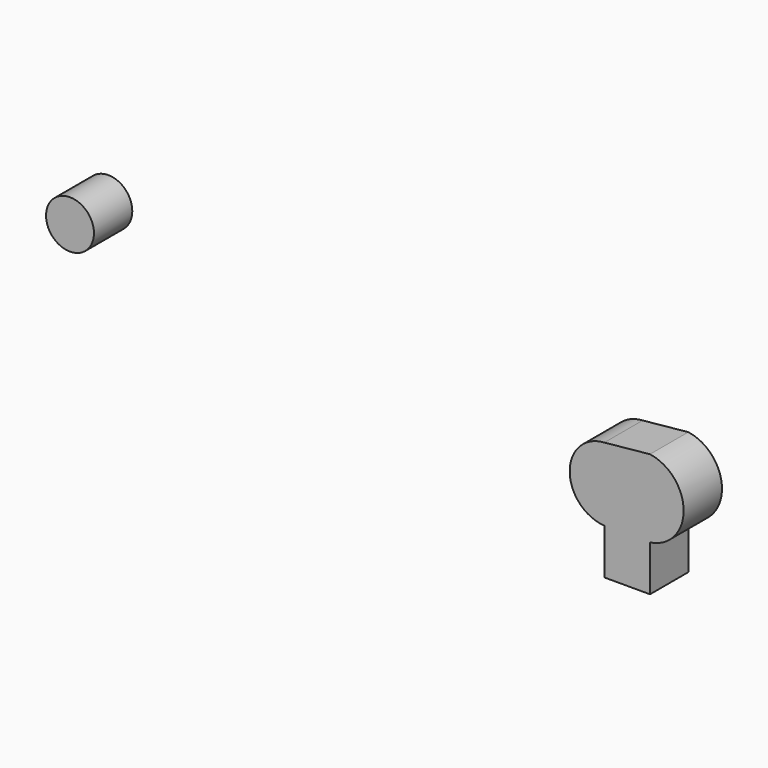
from build123d import *

# Parameters (mm, degrees)
F0_R     = 2.54
F1_DEPTH = 5.08
F3_DEPTH = 5.08


with BuildPart() as f1:
    # F0 (on Front) → F1 (new body)
    with BuildSketch(Plane.XZ):
        with Locations((-24.448814, 22.996413)):
            Circle(F0_R)
    extrude(amount=F1_DEPTH)


with BuildPart() as f3:
    # F2 (on Front) → F3 (new body)
    with BuildSketch(Plane.XZ):
        with BuildLine():
            Line((37.036318, 8.472365), (37.036318, 13.313714))
            ThreePointArc((37.036318, 13.313714), (40.60537, 17.428861), (37.036318, 21.544008))
            Line((37.036318, 21.544008), (32.194976, 21.059873))
            ThreePointArc((32.194976, 21.059873), (28.523823, 17.186793), (32.194976, 13.313714))
            Line((32.194976, 13.313714), (32.194976, 8.472365))
            Line((32.194976, 8.472365), (37.036318, 8.472365))
        make_face()
    extrude(amount=F3_DEPTH)


solid = Compound([f1.part, f3.part])
